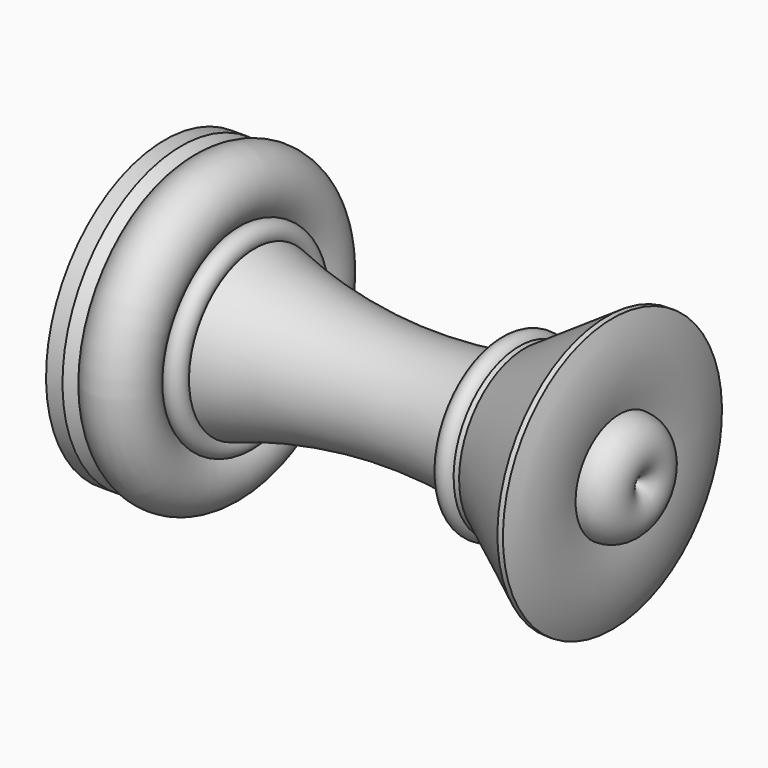
from build123d import *


with BuildPart() as f1:
    # F0 (on Front) → F1 (revolve)
    with BuildSketch(Plane.XZ):
        with BuildLine():
            ThreePointArc((-3.27, -25), (-1.4791600329, -17.5978611172), (-2, -10))
            ThreePointArc((-2, -10), (3.0990195136, -5.8198039027), (0, 0))
            Line((0, 0), (-85, 0))
            Line((-85, 0), (-85, -27.1127671003))
            Line((-85, -27.1127671003), (-82, -27.1127671003))
            Line((-82, -27.1127671003), (-80, -26))
            ThreePointArc((-80, -26), (-71.3464913899, -26.3030364534), (-71.4012769999, -17.6443967858))
            ThreePointArc((-71.4012769999, -17.6443967858), (-68.9825645785, -17.3988781), (-68.5878076105, -15))
            ThreePointArc((-68.5878076105, -15), (-45.4928241315, -10.4269717566), (-22.0020508076, -12))
            ThreePointArc((-22.0020508076, -12), (-23.7341016151, -15), (-20.27, -15))
            Line((-20.27, -15), (-19.27, -15))
            Line((-19.27, -15), (-4.27, -25))
            Line((-4.27, -25), (-3.27, -25))
        make_face()
        with BuildLine():
            ThreePointArc((-72.5538198015, -16.7889482024), (-71.9518761754, -17.1820843971), (-71.4012769999, -17.6443967858))
            ThreePointArc((-71.4012769999, -17.6443967858), (-71.478748695, -17.5941705423), (-71.5538198015, -17.5404223511))
            Line((-71.5538198015, -17.5404223511), (-72.5538198015, -16.7889482024))
        make_face(mode=Mode.SUBTRACT)
        with BuildLine():
            ThreePointArc((-71.5538198015, -17.5404223511), (-71.478748695, -17.5941705423), (-71.4012769999, -17.6443967858))
            ThreePointArc((-71.4012769999, -17.6443967858), (-71.9518761754, -17.1820843971), (-72.5538198015, -16.7889482024))
            Line((-72.5538198015, -16.7889482024), (-71.5538198015, -17.5404223511))
        make_face()
    revolve(axis=Axis((-42.5, 0, 0), (1, 0, 0)))


solid = f1.part
